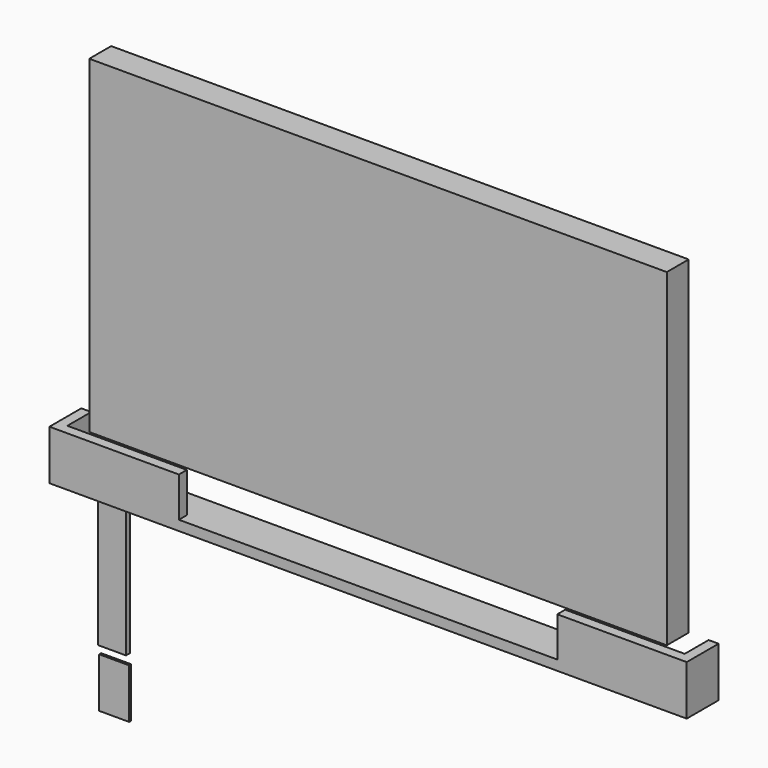
from build123d import *

# Parameters (mm, degrees)
F0_W      = 1625.6
F0_H      = 101.6
F1_DEPTH  = 25.4
F2_W      = 1625.6
F2_H      = 25.4
F3_DEPTH  = 101.6
F4_W      = 25.4
F4_H      = 76.2
F5_DEPTH  = 101.6
F6_W      = 965.2
F6_H      = 101.6
F7_DEPTH  = 25.4
F8_W      = 1473.2
F8_H      = 69.85
F9_DEPTH  = 838.2
F10_W     = 76.2
F10_H     = 127
F11_DEPTH = 6.35
F12_W     = 71.093232
F12_H     = 382.467955
F13_DEPTH = 12.7


with BuildPart() as f1:
    # F0 (on Top) → F1 (new body)
    with BuildSketch(Plane.XY):
        with Locations((812.8, -50.8)):
            Rectangle(F0_W, F0_H)
    extrude(amount=F1_DEPTH)

    # F2 (on face) → F3 (join)
    with BuildSketch(Plane.XY.offset(25.4)):
        with Locations((812.8, -88.9)):
            Rectangle(F2_W, F2_H)
    extrude(amount=F3_DEPTH)

    # F4 (on face) → F5 (join)
    with BuildSketch(Plane.XY.offset(25.4)):
        with Locations((12.7, -38.1)):
            Rectangle(F4_W, F4_H)
        with Locations((1612.9, -38.1)):
            Rectangle(F4_W, F4_H)
    extrude(amount=F5_DEPTH)

    # F6 (on face) → F7 (cut)
    with BuildSketch(Plane.XZ.offset(101.6)):
        with Locations((812.8, 76.2)):
            Rectangle(F6_W, F6_H)
    extrude(amount=-F7_DEPTH, mode=Mode.SUBTRACT)

    # F12 (on Front) → F13 (join)
    with BuildSketch(Plane.XZ):
        with Locations((88.650383, -191.233977)):
            Rectangle(F12_W, F12_H)
    extrude(amount=F13_DEPTH)


with BuildPart() as f9:
    # F8 (on face) → F9 (new body)
    with BuildSketch(Plane.XY.offset(127)):
        with Locations((812.8, -34.925)):
            Rectangle(F8_W, F8_H)
    extrude(amount=F9_DEPTH)


with BuildPart() as f11:
    # F10 (on face) → F11 (new body)
    with BuildSketch(Plane(origin=(0, 0, 0), x_dir=(-1, 0, 0), z_dir=(0, 1, 0))):
        with Locations((-88.9, -469.9)):
            Rectangle(F10_W, F10_H)
    extrude(amount=-F11_DEPTH)


solid = Compound([f1.part, f9.part, f11.part])
